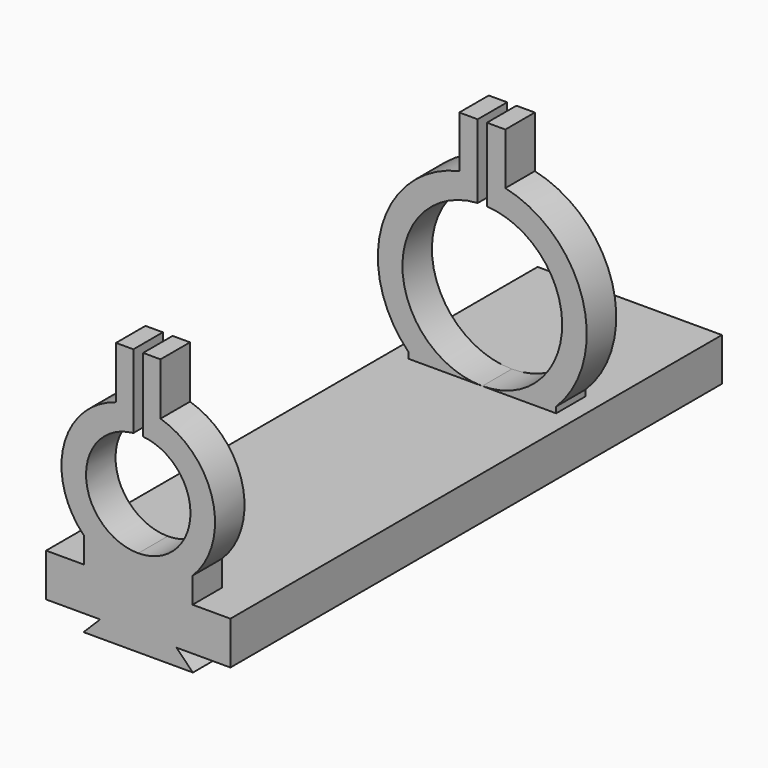
from build123d import *

# Parameters (mm, degrees)
F2_DEPTH = 100
F3_DEPTH = 76
F4_DEPTH = 70
F5_DEPTH = 6
F7_DEPTH = 12.5


with BuildPart() as f2:
    # F0 (on Front) → F2 (new body)
    with BuildSketch(Plane.XZ):
        Polygon((-6.2, 0), (0, 0), (6.2, 0), (15, 0), (15, 7), (8.8388347648, 7), (0, 7), (-8.8388347648, 7), (-15, 7), (-15, 0), align=None)
        Polygon((0, -2.7), (0, 0), (-6.2, 0), (-8.9, -2.7), align=None)
        Polygon((6.2, 0), (0, 0), (0, -2.7), (8.9, -2.7), align=None)
    extrude(amount=-F2_DEPTH)

    # F1 (on Front) → F3 (join)
    with BuildSketch(Plane.XZ):
        with BuildLine():
            ThreePointArc((0, 7), (-12.9945857106, 19.6248437535), (-0.75, 32.9783473524))
            Line((-0.75, 32.9783473524), (-0.75, 44.9783473524))
            Line((-0.75, 44.9783473524), (-3.75, 44.9783473524))
            Line((-3.75, 44.9783473524), (-3.75, 36.5812393988))
            ThreePointArc((-3.75, 36.5812393988), (-16.3309227117, 24.7223895842), (-12.0208152802, 7.9791847198))
            Line((-12.0208152802, 7.9791847198), (-12.0208152802, 7))
            Line((-12.0208152802, 7), (0, 7))
        make_face()
        with BuildLine():
            ThreePointArc((0.75, 32.9783473524), (12.9945857106, 19.6248437535), (0, 7))
            Line((0, 7), (12.0208152802, 7))
            Line((12.0208152802, 7), (12.0208152802, 7.9791847198))
            ThreePointArc((12.0208152802, 7.9791847198), (16.3309227117, 24.7223895842), (3.75, 36.5812393988))
            Line((3.75, 36.5812393988), (3.75, 44.9783473524))
            Line((3.75, 44.9783473524), (0.75, 44.9783473524))
            Line((0.75, 44.9783473524), (0.75, 32.9783473524))
        make_face()
    extrude(amount=-F3_DEPTH)

    # F1 (on Front) → F4 (cut)
    with BuildSketch(Plane.XZ):
        with BuildLine():
            ThreePointArc((0, 7), (-12.9945857106, 19.6248437535), (-0.75, 32.9783473524))
            Line((-0.75, 32.9783473524), (-0.75, 44.9783473524))
            Line((-0.75, 44.9783473524), (-3.75, 44.9783473524))
            Line((-3.75, 44.9783473524), (-3.75, 36.5812393988))
            ThreePointArc((-3.75, 36.5812393988), (-16.3309227117, 24.7223895842), (-12.0208152802, 7.9791847198))
            Line((-12.0208152802, 7.9791847198), (-12.0208152802, 7))
            Line((-12.0208152802, 7), (0, 7))
        make_face()
        with BuildLine():
            ThreePointArc((0.75, 32.9783473524), (12.9945857106, 19.6248437535), (0, 7))
            Line((0, 7), (12.0208152802, 7))
            Line((12.0208152802, 7), (12.0208152802, 7.9791847198))
            ThreePointArc((12.0208152802, 7.9791847198), (16.3309227117, 24.7223895842), (3.75, 36.5812393988))
            Line((3.75, 36.5812393988), (3.75, 44.9783473524))
            Line((3.75, 44.9783473524), (0.75, 44.9783473524))
            Line((0.75, 44.9783473524), (0.75, 32.9783473524))
        make_face()
    extrude(amount=-F4_DEPTH, mode=Mode.SUBTRACT)

    # F0 (on Front) → F5 (join)
    with BuildSketch(Plane.XZ):
        with BuildLine():
            Line((-8.8388347648, 11.1611652352), (-8.8388347648, 7))
            Line((-8.8388347648, 7), (0, 7))
            Line((0, 7), (0, 11.5))
            ThreePointArc((0, 11.5), (-8.4907228952, 19.602980205), (-0.7931729561, 28.4629118311))
            Line((-0.7931729561, 28.4629118311), (-0.7931729561, 40.4629118311))
            Line((-0.7931729561, 40.4629118311), (-3.624006873, 40.4629118311))
            Line((-3.624006873, 40.4629118311), (-3.624006873, 31.9631339617))
            ThreePointArc((-3.624006873, 31.9631339617), (-12.1248126232, 23.0395589899), (-8.8388347648, 11.1611652352))
        make_face()
        with BuildLine():
            Line((0, 7), (8.8388347648, 7))
            Line((8.8388347648, 7), (8.8388347648, 11.1611652352))
            ThreePointArc((8.8388347648, 11.1611652352), (12.1248126232, 23.0395589899), (3.624006873, 31.9631339617))
            Line((3.624006873, 31.9631339617), (3.624006873, 40.4629118311))
            Line((3.624006873, 40.4629118311), (0.7931729561, 40.4629118311))
            Line((0.7931729561, 40.4629118311), (0.7931729561, 28.4629118311))
            ThreePointArc((0.7931729561, 28.4629118311), (8.4907228952, 19.602980205), (0, 11.5))
            Line((0, 11.5), (0, 7))
        make_face()
    extrude(amount=-F5_DEPTH)

    # F6 (on Right) → F7 (cut, symmetric)
    with BuildSketch(Plane.YZ):
        with BuildLine():
            ThreePointArc((73, 60.07835), (71.5, 58.57835), (73, 57.07835))
            Line((73, 57.07835), (73, 58.57835))
            Line((73, 58.57835), (73, 60.07835))
        make_face()
        with BuildLine():
            Line((73, 58.57835), (73, 57.07835))
            ThreePointArc((73, 57.07835), (74.0606601718, 57.5176898282), (74.5, 58.57835))
            ThreePointArc((74.5, 58.57835), (74.0606601718, 59.6390101718), (73, 60.07835))
            Line((73, 60.07835), (73, 58.57835))
        make_face()
        with BuildLine():
            ThreePointArc((4.5, 54.06291), (4.0606601718, 55.1235701718), (3, 55.56291))
            ThreePointArc((3, 55.56291), (1.9393398282, 53.0022498282), (4.5, 54.06291))
        make_face()
    extrude(amount=F7_DEPTH, both=True, mode=Mode.SUBTRACT)


solid = f2.part
